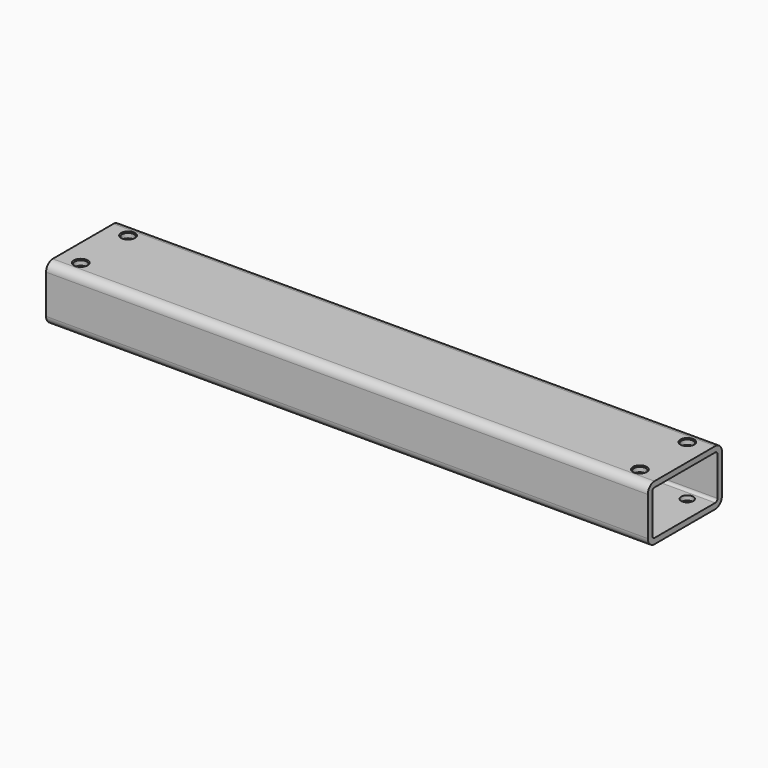
from build123d import *

# Parameters (mm, degrees)
F0_W     = 50
F0_H     = 30
F0_W_2   = 44
F0_H_2   = 24
F1_DEPTH = 162.5
F2_R     = 1.5
F3_R     = 4.5
F4_R     = 3.25
F5_DEPTH = 35
F6_SIZE  = 0.5


with BuildPart() as f1:
    # F0 (on Right) → F1 (new body, symmetric)
    with BuildSketch(Plane.YZ):
        Rectangle(F0_W, F0_H)
        Rectangle(F0_W_2, F0_H_2, mode=Mode.SUBTRACT)
    extrude(amount=F1_DEPTH, both=True)

    # F2
    f2_edges = [f1.edges().sort_by_distance(p)[0] for p in [
        (0, -22, -12),
        (0, -22, 12),
        (0, 22, -12),
        (0, 22, 12),
    ]]
    fillet(f2_edges, radius=F2_R)

    # F3
    f3_edges = [f1.edges().sort_by_distance(p)[0] for p in [
        (0, -25, 15),
        (0, -25, -15),
        (0, 25, -15),
        (0, 25, 15),
    ]]
    fillet(f3_edges, radius=F3_R)

    # F4 (on face) → F5 (cut)
    with BuildSketch(Plane.XY.offset(15)):
        with Locations((-151, 16)):
            Circle(F4_R)
        with Locations((-151, -16)):
            Circle(F4_R)
        with Locations((151, -16)):
            Circle(F4_R)
        with Locations((151, 16)):
            Circle(F4_R)
    extrude(amount=-F5_DEPTH, mode=Mode.SUBTRACT)

    # F6
    f6_edges = [f1.edges().sort_by_distance(p)[0] for p in [
        (-154.25, -16, 15),
        (-154.25, 16, 15),
        (147.75, -16, 15),
        (147.75, 16, 15),
        (147.75, 16, -15),
        (147.75, -16, -15),
        (-154.25, 16, -15),
        (-154.25, -16, -15),
    ]]
    chamfer(f6_edges, length=F6_SIZE)


solid = f1.part
